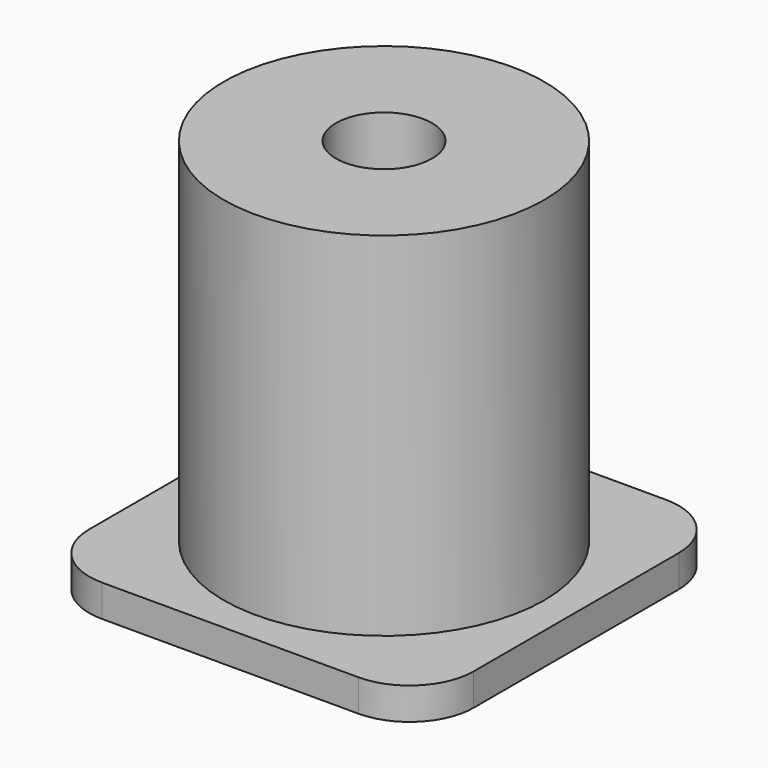
from build123d import *

# Parameters (mm, degrees)
F0_R     = 5
F0_R_2   = 1.5
F1_DEPTH = 12
F0_R_3   = 1.25
F2_DEPTH = 5
F0_W     = 12
F0_H     = 12
F3_DEPTH = 1
F4_R     = 2


with BuildPart() as f1:
    # F0 (on Top) → F1 (new body)
    with BuildSketch(Plane.XY):
        Circle(F0_R)
        Circle(F0_R_2, mode=Mode.SUBTRACT)
    extrude(amount=F1_DEPTH)

    # F0 (on Top) → F2 (join)
    with BuildSketch(Plane.XY):
        Circle(F0_R_2)
        Circle(F0_R_3, mode=Mode.SUBTRACT)
    extrude(amount=F2_DEPTH)

    # F0 (on Top) → F3 (join)
    with BuildSketch(Plane.XY):
        Rectangle(F0_W, F0_H)
        Circle(F0_R, mode=Mode.SUBTRACT)
    extrude(amount=F3_DEPTH)

    # F4
    f4_edges = [f1.edges().sort_by_distance(p)[0] for p in [
        (-6, -6, 0.5),
        (-6, 6, 0.5),
        (6, -6, 0.5),
        (6, 6, 0.5),
    ]]
    fillet(f4_edges, radius=F4_R)


solid = f1.part
